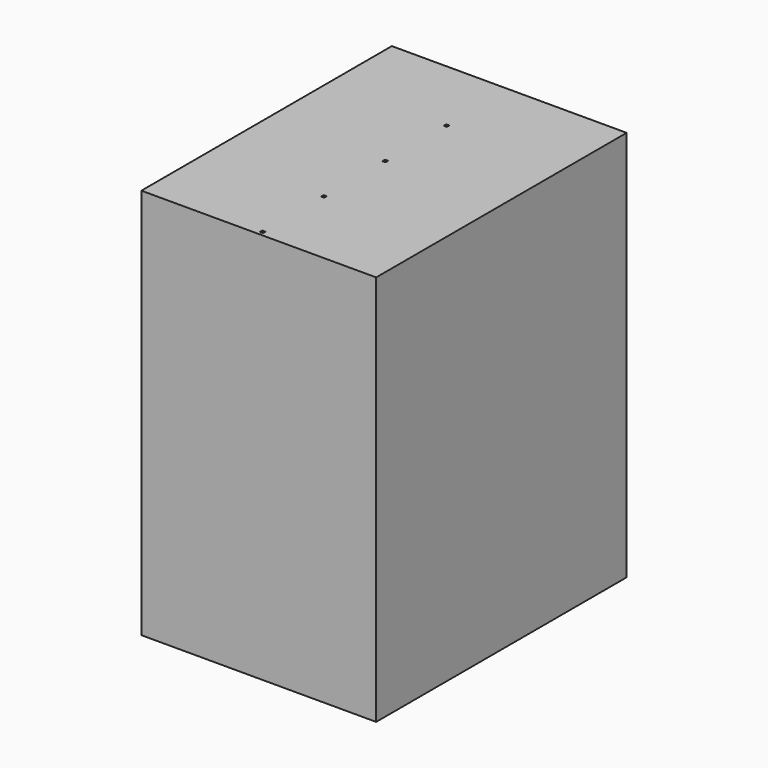
from build123d import *

# Parameters (mm, degrees)
F0_W     = 0.2
F0_H     = 0.2
F1_DEPTH = 0.725
F2_DEPTH = 25


with BuildPart() as f1:
    # F0 (on Top) → F1 (new body)
    with BuildSketch(Plane.XY):
        Polygon((-0.1, 10), (-7.3, 10), (-7.3, 9.8), (-7.5, 9.8), (-7.5, 5.1), (-7.3, 5.1), (-7.3, 4.9), (-7.5, 4.9), (-7.5, 0.2), (-7.3, 0.2), (-7.3, 0), (-7.5, 0), (-7.5, -4.7), (-7.3, -4.7), (-7.3, -4.9), (-7.5, -4.9), (-7.5, -9.6), (-7.3, -9.6), (-7.3, -9.8), (-7.5, -9.8), (-7.5, -10), (7.5, -10), (7.5, -9.8), (7.3, -9.8), (7.3, -9.6), (7.5, -9.6), (7.5, -4.9), (7.3, -4.9), (7.3, -4.7), (7.5, -4.7), (7.5, 0), (7.3, 0), (7.3, 0.2), (7.5, 0.2), (7.5, 4.9), (7.3, 4.9), (7.3, 5.1), (7.5, 5.1), (7.5, 9.8), (7.3, 9.8), (7.3, 10), (0.1, 10), (0.1, 9.8), (-0.1, 9.8), align=None)
        with Locations((0, -9.7)):
            Rectangle(F0_W, F0_H, mode=Mode.SUBTRACT)
        with Locations((0, -4.8)):
            Rectangle(F0_W, F0_H, mode=Mode.SUBTRACT)
        with Locations((0, 0.1)):
            Rectangle(F0_W, F0_H, mode=Mode.SUBTRACT)
        with Locations((0, 5)):
            Rectangle(F0_W, F0_H, mode=Mode.SUBTRACT)
    extrude(amount=F1_DEPTH)

    # F0 (on Top) → F2 (join)
    with BuildSketch(Plane.XY):
        with Locations((-7.4, 9.9)):
            Rectangle(F0_W, F0_H)
        Polygon((-0.1, 10), (-7.3, 10), (-7.3, 9.8), (-7.5, 9.8), (-7.5, 5.1), (-7.3, 5.1), (-7.3, 4.9), (-7.5, 4.9), (-7.5, 0.2), (-7.3, 0.2), (-7.3, 0), (-7.5, 0), (-7.5, -4.7), (-7.3, -4.7), (-7.3, -4.9), (-7.5, -4.9), (-7.5, -9.6), (-7.3, -9.6), (-7.3, -9.8), (-7.5, -9.8), (-7.5, -10), (7.5, -10), (7.5, -9.8), (7.3, -9.8), (7.3, -9.6), (7.5, -9.6), (7.5, -4.9), (7.3, -4.9), (7.3, -4.7), (7.5, -4.7), (7.5, 0), (7.3, 0), (7.3, 0.2), (7.5, 0.2), (7.5, 4.9), (7.3, 4.9), (7.3, 5.1), (7.5, 5.1), (7.5, 9.8), (7.3, 9.8), (7.3, 10), (0.1, 10), (0.1, 9.8), (-0.1, 9.8), align=None)
        with Locations((0, -9.7)):
            Rectangle(F0_W, F0_H, mode=Mode.SUBTRACT)
        with Locations((0, -4.8)):
            Rectangle(F0_W, F0_H, mode=Mode.SUBTRACT)
        with Locations((0, 0.1)):
            Rectangle(F0_W, F0_H, mode=Mode.SUBTRACT)
        with Locations((0, 5)):
            Rectangle(F0_W, F0_H, mode=Mode.SUBTRACT)
        with Locations((0, 9.9)):
            Rectangle(F0_W, F0_H)
        with Locations((-7.4, 5)):
            Rectangle(F0_W, F0_H)
        with Locations((7.4, 9.9)):
            Rectangle(F0_W, F0_H)
        with Locations((-7.4, 0.1)):
            Rectangle(F0_W, F0_H)
        with Locations((-7.4, -4.8)):
            Rectangle(F0_W, F0_H)
        with Locations((7.4, 5)):
            Rectangle(F0_W, F0_H)
        with Locations((-7.4, -9.7)):
            Rectangle(F0_W, F0_H)
        with Locations((7.4, 0.1)):
            Rectangle(F0_W, F0_H)
        with Locations((7.4, -4.8)):
            Rectangle(F0_W, F0_H)
        with Locations((7.4, -9.7)):
            Rectangle(F0_W, F0_H)
    extrude(amount=F2_DEPTH)


solid = f1.part
